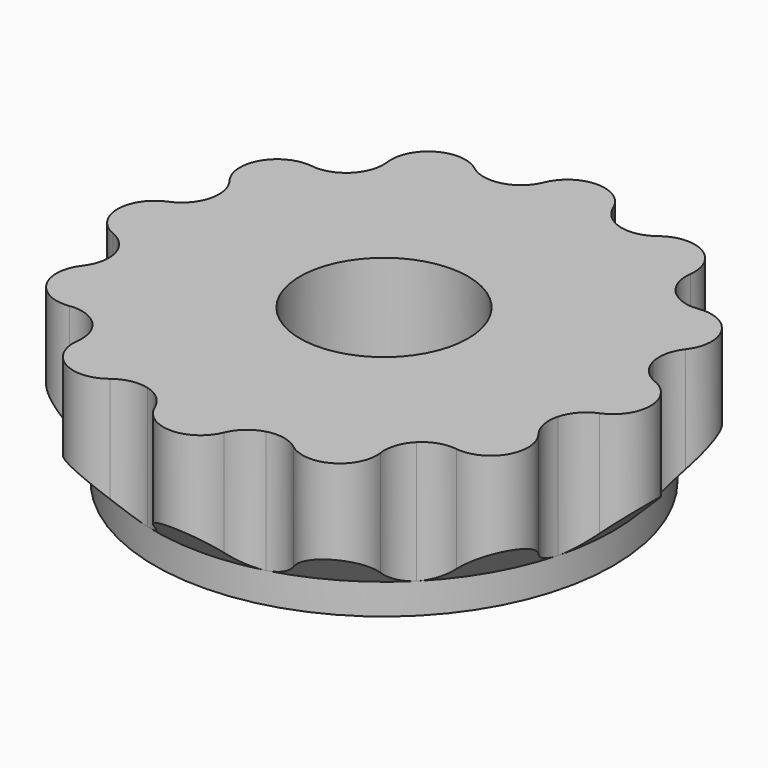
from build123d import *

# Parameters (mm, degrees)
SKETCH026_R           = 7.5
SKETCH026_R_2         = 1.5
PAD010_DEPTH          = 5
PAD011_DEPTH          = 5
POLARPATTERN001_COUNT = 12
SKETCH027_R           = 2.75
POCKET011_DEPTH       = 4


with BuildPart() as part:
    # Sketch026 → Pad010 (new body)
    with BuildSketch(Plane.XY):
        Circle(SKETCH026_R)
        Circle(SKETCH026_R_2, mode=Mode.SUBTRACT)
    extrude(amount=PAD010_DEPTH)

    # Sketch025 → Pad011 (join)
    with BuildSketch(Plane.XY):
        with BuildLine():
            ThreePointArc((-1.9411428383, 7.2444436972), (-1.4507312086, 7.5073521715), (-1.1282932388, 7.9608476931))
            ThreePointArc((1.1282932388, 7.9608476931), (0, 8.718780632), (-1.1282932388, 7.9608476931))
            ThreePointArc((1.1282932388, 7.9608476931), (1.4507312086, 7.5073521715), (1.9411428383, 7.2444436972))
            ThreePointArc((1.9411428383, 7.2444436972), (0, 7.5), (-1.9411428383, 7.2444436972))
        make_face()
    pad011 = extrude(amount=PAD011_DEPTH)

    # PolarPattern001: Pad011 ×12 about axis
    polarpattern001_axis = Axis((0, 0, 0), (0, 0, 1))
    for i in range(1, POLARPATTERN001_COUNT):
        add(pad011.rotate(polarpattern001_axis, i * 360 / POLARPATTERN001_COUNT))

    # Sketch027 (on Face51 of PolarPattern001) → Pocket011 (cut)
    with BuildSketch(Plane.XY.offset(5)):
        Circle(SKETCH027_R)
    extrude(amount=-POCKET011_DEPTH, mode=Mode.SUBTRACT)

    # Sketch028 → Groove (revolve, cut)
    with BuildSketch(Plane.XZ):
        Polygon((7.5, 0), (7.5, 1), (9.5, 3), (9.5, 0), align=None)
    revolve(axis=Axis((0, 0, 0), (0, 0, 1)), mode=Mode.SUBTRACT)


solid = part.part
